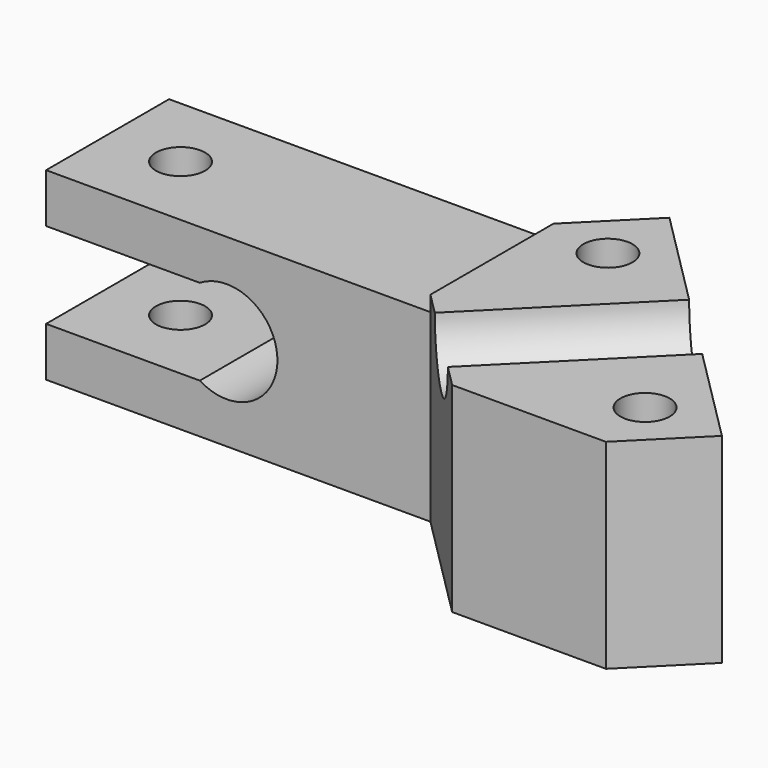
from build123d import *

# Parameters (mm, degrees)
PAD_DEPTH            = 10
SKETCH_R             = 1.6
PAD001_DEPTH         = 7
PAD001_DEPTH_BACK    = 6
SKETCH004_R          = 3
POCKET_DEPTH         = 27.372693
POCKET001_DEPTH      = 2
SKETCH006_R          = 1.6
POCKET002_DEPTH      = 6.001
POCKET002_DEPTH_BACK = -7.001


with BuildPart() as part:
    # Sketch003 → Pad (new body)
    with BuildSketch(Plane.XZ):
        with BuildLine():
            Line((13.253575, -6), (-11.746425, -6))
            Line((-11.746425, -2.8), (-11.746425, -6))
            Line((-1.746425, -2.8), (-11.746425, -2.8))
            ThreePointArc((-1.746425, -2.8), (3.3, 0), (-1.746425, 2.8))
            Line((-1.746425, 2.8), (-11.746425, 2.8))
            Line((-11.746425, 2.8), (-11.746425, 6))
            Line((13.253575, 6), (-11.746425, 6))
            Line((13.253575, 6), (13.253575, 0))
            Line((13.253575, 0), (13.253575, -6))
        make_face()
    extrude(amount=PAD_DEPTH)

    # Sketch → Pad001 (join, two sides)
    with BuildSketch(Plane.XY) as pad001_sk:
        Polygon((13.253575, -10), (20.324643, -17.071068), (30.324643, -17.071068), (34.517031, -12.87868), (17.445963, 4.192388), (13.253575, 0), align=None)
        with Locations((17.445963, -0.807612)):
            Circle(SKETCH_R, mode=Mode.SUBTRACT)
        with Locations((29.517031, -12.87868)):
            Circle(SKETCH_R, mode=Mode.SUBTRACT)
    extrude(amount=PAD001_DEPTH)
    extrude(pad001_sk.sketch, amount=-PAD001_DEPTH_BACK)

    # Sketch004 (on DatumPlane) → Pocket (cut, through all)
    with BuildSketch(Plane(origin=(0, 0, 3.5), x_dir=(0, 0, -1), z_dir=(-0.707107, -0.707107, 0))):
        with Locations((-3.5, 21.442761)):
            Circle(SKETCH004_R)
    extrude(amount=-POCKET_DEPTH, mode=Mode.SUBTRACT)

    # Sketch005 (on DatumPlane) → Pocket001 (cut)
    with BuildSketch(Plane.XY.offset(-6)):
        Polygon((18.267824, -3.874838), (20.51319, -1.629473), (19.691329, 1.437754), (16.624102, 2.259615), (14.378737, 0.014249), (15.200598, -3.052977), align=None)
        Polygon((30.338892, -15.945906), (32.584257, -13.700541), (31.762397, -10.633314), (28.69517, -9.811453), (26.449805, -12.056819), (27.271665, -15.124045), align=None)
    extrude(amount=POCKET001_DEPTH, mode=Mode.SUBTRACT)

    # Sketch006 → Pocket002 (cut, two sides)
    with BuildSketch(Plane.XY) as pocket002_sk:
        with Locations((-7, -5)):
            Circle(SKETCH006_R)
    extrude(amount=-POCKET002_DEPTH, mode=Mode.SUBTRACT)
    extrude(pocket002_sk.sketch, amount=-POCKET002_DEPTH_BACK, mode=Mode.SUBTRACT)


solid = part.part
